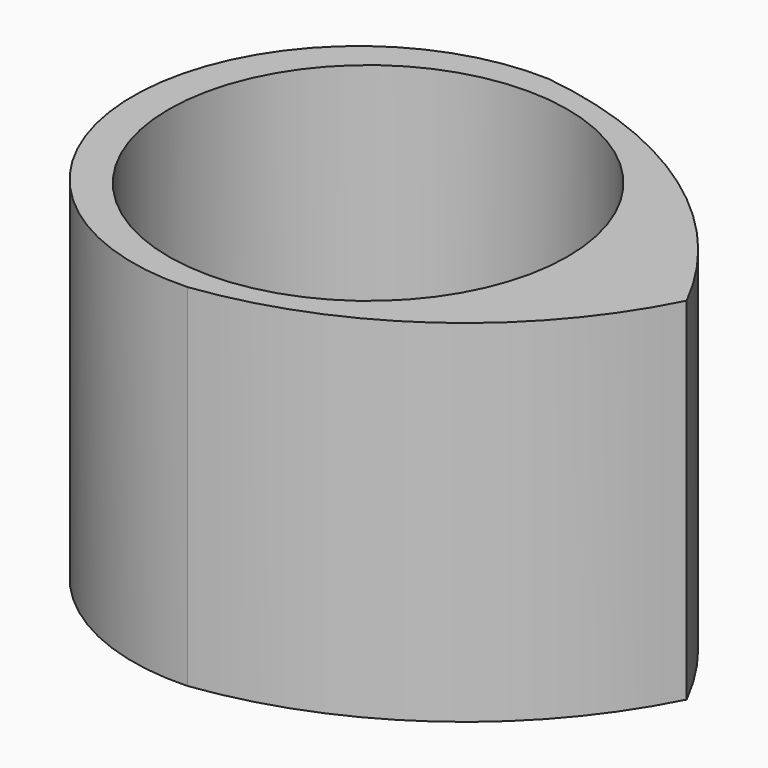
from build123d import *

# Parameters (mm, degrees)
F0_R     = 15.9
F1_DEPTH = 28


with BuildPart() as f1:
    # F0 (on Top) → F1 (new body)
    with BuildSketch(Plane.XY):
        with BuildLine():
            ThreePointArc((25.4, 0), (14.940126, 12.156503), (-0.00066, 17.984234))
            ThreePointArc((-0.00066, 17.984234), (-18.753869, 0), (-0.00066, -17.984234))
            ThreePointArc((-0.00066, -17.984234), (14.940126, -12.156503), (25.4, 0))
        make_face()
        Circle(F0_R, mode=Mode.SUBTRACT)
    extrude(amount=F1_DEPTH)


solid = f1.part
